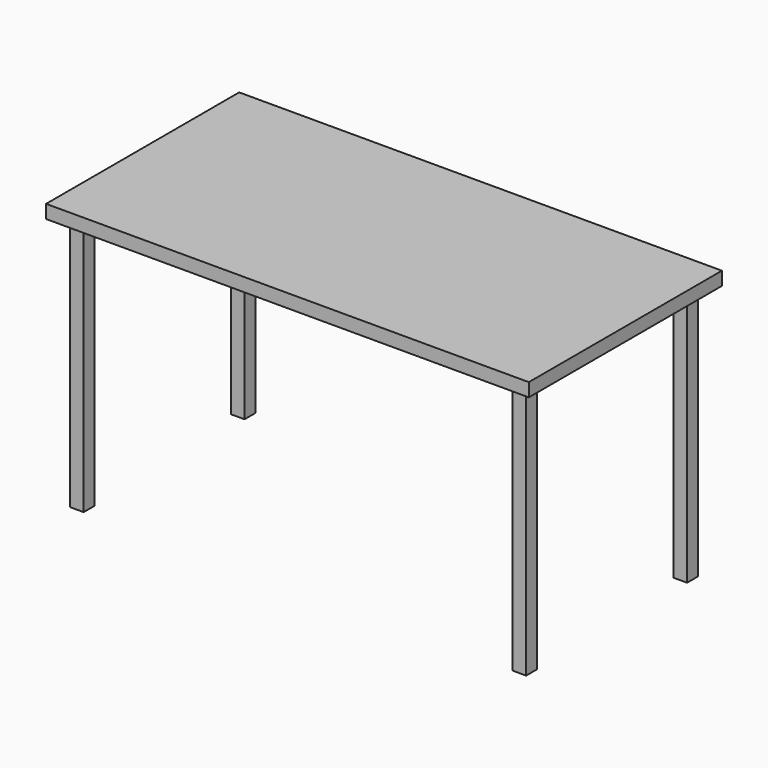
from build123d import *

# Parameters (mm, degrees)
F0_W     = 1828.8
F0_H     = 914.4
F1_DEPTH = 50.8
F2_W     = 50.8
F2_H     = 50.8
F3_DEPTH = 1016


with BuildPart() as f1:
    # F0 (on Top) → F1 (new body)
    with BuildSketch(Plane.XY):
        Rectangle(F0_W, F0_H)
    extrude(amount=F1_DEPTH)

    # F2 (on face) → F3 (join)
    with BuildSketch(Plane.XY.offset(50.8)):
        with Locations((-838.2, -381)):
            Rectangle(F2_W, F2_H)
    extrude(amount=-F3_DEPTH)

    # F4: F1 across plane


with BuildPart() as f1_1:
    add(f1.part)
    add(f1.part.mirror(Plane.XZ))

    # F5: F1 across plane


with BuildPart() as f1_2:
    add(f1_1.part)
    add(f1_1.part.mirror(Plane.YZ))


solid = f1_2.part
